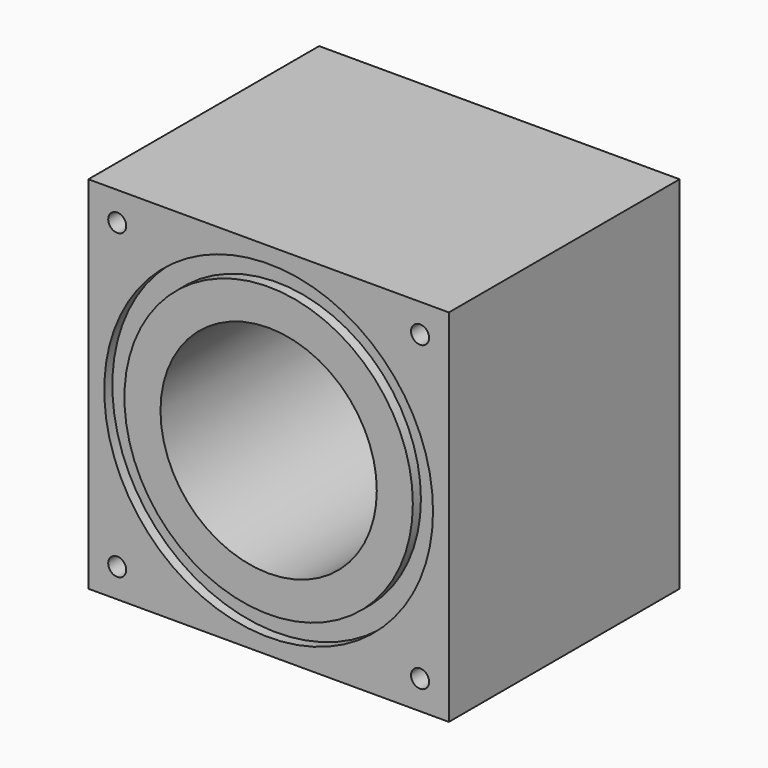
from build123d import *

# Parameters (mm, degrees)
F0_W      = 31.75
F0_H      = 31.75
F1_DEPTH  = 12.7
F3_D      = 19.05
F4_R      = 14.478
F4_R_2    = 12.7
F5_DEPTH  = 0.889
F6_R      = 14.478
F6_R_2    = 12.7
F7_DEPTH  = 0.889
F9_D      = 1.5875
F9_DEPTH  = 7.62
F9_TIP    = 0.4769331164
F11_D     = 1.5875
F11_DEPTH = 7.62
F11_TIP   = 0.4769331164


with BuildPart() as f1:
    # F0 (on Front) → F1 (new body, symmetric)
    with BuildSketch(Plane.XZ):
        Rectangle(F0_W, F0_H)
    extrude(amount=F1_DEPTH, both=True)

    # F3 (through all)
    with Locations(Plane.XZ.offset(12.7)):
        with Locations((0, 0)):
            Hole(F3_D / 2)

    # F4 (on face) → F5 (cut)
    with BuildSketch(Plane.XZ.offset(12.7)):
        Circle(F4_R)
        Circle(F4_R_2, mode=Mode.SUBTRACT)
    extrude(amount=-F5_DEPTH, mode=Mode.SUBTRACT)

    # F6 (on face) → F7 (cut)
    with BuildSketch(Plane(origin=(0, 12.7, 0), x_dir=(-1, 0, 0), z_dir=(0, 1, 0))):
        Circle(F6_R)
        Circle(F6_R_2, mode=Mode.SUBTRACT)
    extrude(amount=-F7_DEPTH, mode=Mode.SUBTRACT)

    # F9
    with Locations(Plane(origin=(0, 12.7, 0), x_dir=(-1, 0, 0), z_dir=(0, 1, 0))):
        with Locations((-13.335, 13.335), (13.335, 13.335), (13.335, -13.335), (-13.335, -13.335)):
            Hole(F9_D / 2, depth=F9_DEPTH)
            with Locations((0, 0, -(F9_DEPTH + F9_TIP / 2))):  # 118° drill point
                Cone(0, F9_D / 2, F9_TIP, mode=Mode.SUBTRACT)

    # F11
    with Locations(Plane.XZ.offset(12.7)):
        with Locations((-13.335, 13.335), (13.335, 13.335), (13.335, -13.335), (-13.335, -13.335)):
            Hole(F11_D / 2, depth=F11_DEPTH)
            with Locations((0, 0, -(F11_DEPTH + F11_TIP / 2))):  # 118° drill point
                Cone(0, F11_D / 2, F11_TIP, mode=Mode.SUBTRACT)


solid = f1.part
